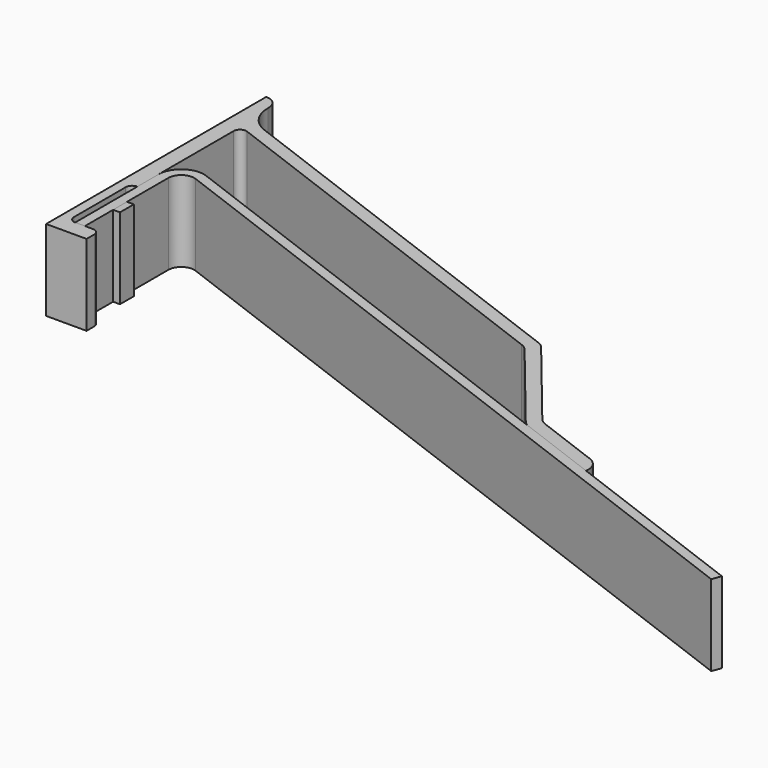
from build123d import *

# Parameters (mm, degrees)
F3_DEPTH = 25
F4_DEPTH = 25
F2_W     = 2.117321
F2_H     = 5.349764
F5_DEPTH = 25


with BuildPart() as f3:
    # F0 (on Top) → F3 (new body)
    with BuildSketch(Plane.XY):
        with BuildLine():
            Line((-28.395831, 61.447918), (-28.395831, -23.552082))
            Line((-28.395831, -23.552082), (-15.895831, -23.552082))
            Line((-15.895831, -23.552082), (-15.895831, -20.552082))
            ThreePointArc((-15.895831, -20.552082), (-16.481618, -19.137868), (-17.895831, -18.552082))
            Line((-17.895831, -18.552082), (-23.395831, -18.552082))
            ThreePointArc((-23.395831, -18.552082), (-24.810045, -17.966296), (-25.395831, -16.552082))
            Line((-25.395831, -16.552082), (-25.395831, 3.447918))
            ThreePointArc((-25.395831, 3.447918), (-24.810045, 4.862132), (-23.395831, 5.447918))
            Line((-23.395831, 5.447918), (-23.395831, 42.559603))
            ThreePointArc((-23.395831, 42.559603), (-22.534404, 44.203881), (-20.692179, 44.431733))
            Line((-20.692179, 44.431733), (100.542209, -1.134979))
            ThreePointArc((100.542209, -1.134979), (101.70426, -1.757387), (102.663259, -2.661862))
            Line((102.663259, -2.661862), (126.343989, -31.800006))
            ThreePointArc((126.343989, -31.800006), (127.302988, -32.704481), (128.465038, -33.326889))
            Line((128.465038, -33.326889), (153.804169, -42.850762))
            ThreePointArc((153.804169, -42.850762), (153.189293, -39.550444), (150.625708, -37.382911))
            Line((150.625708, -37.382911), (130.886128, -29.963665))
            ThreePointArc((130.886128, -29.963665), (129.724078, -29.341257), (128.765079, -28.436782))
            Line((128.765079, -28.436782), (105.084348, 0.701362))
            ThreePointArc((105.084348, 0.701362), (104.12535, 1.605836), (102.963299, 2.228245))
            Line((102.963299, 2.228245), (-17.914092, 47.660778))
            ThreePointArc((-17.914092, 47.660778), (-22.617224, 51.328568), (-24.395831, 57.021431))
            Line((-24.395831, 57.021431), (-24.395831, 57.447918))
            ThreePointArc((-24.395831, 57.447918), (-25.567404, 60.276345), (-28.395831, 61.447918))
        make_face()
    extrude(amount=F3_DEPTH)


with BuildPart() as f4:
    # F1 (on Top) → F4 (new body)
    with BuildSketch(Plane.XY):
        with BuildLine():
            Line((-23.395831, 13.641875), (-23.395831, -18.552082))
            Line((-23.395831, -18.552082), (-20.395831, -18.552082))
            Line((-20.395831, -18.552082), (-20.395831, 13.641875))
            ThreePointArc((-20.395831, 13.641875), (-18.672977, 16.930433), (-14.988527, 17.386137))
            Line((-14.988527, 17.386137), (212.748691, -68.210337))
            Line((212.748691, -68.210337), (213.804169, -65.402141))
            Line((213.804169, -65.402141), (-13.933049, 20.194333))
            ThreePointArc((-13.933049, 20.194333), (-20.380836, 19.396851), (-23.395831, 13.641875))
        make_face()
    extrude(amount=F4_DEPTH)


with BuildPart() as f5:
    # F2 (on Top) → F5 (new body)
    with BuildSketch(Plane.XY):
        with Locations((-19.33717, -5.00126)):
            Rectangle(F2_W, F2_H)
    extrude(amount=F5_DEPTH)


solid = Compound([f3.part, f4.part, f5.part])
